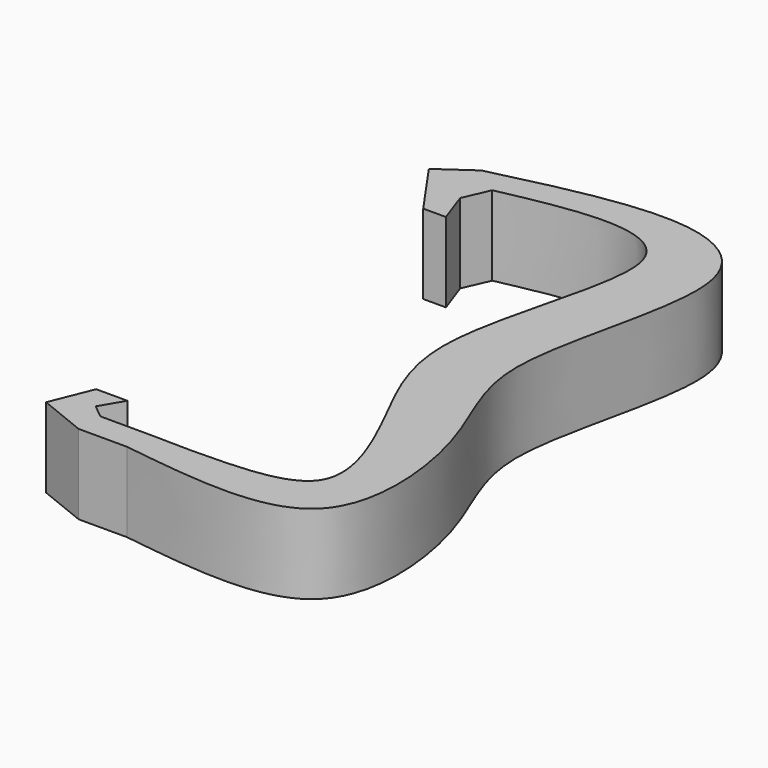
from build123d import *

# Parameters (mm, degrees)
F1_DEPTH = 20.32


with BuildPart() as f1:
    # F0 (on Top) → F1 (new body)
    with BuildSketch(Plane.XY):
        with BuildLine():
            Line((-5.7910070071, 41.5022486223), (0, 41.5022486223))
            Line((0, 41.5022486223), (-2.8955035035, 49.6828880203))
            Line((-2.8955035035, 49.6828880203), (0, 56.2785800104))
            add(Edge.make_bspline(
                [(12.8078160866, -68.7409374452), (18.608122414, -68.8904514883), (30.5005316395, -69.1970012602), (59.2912277286, -66.6743928388), (44.5129631894, -31.8993229359), (27.0069880809, -2.762895485), (50.0517279664, 51.6752064312), (29.7991802812, 62.4824075839), (11.0208183177, 58.5730066325), (0, 56.2785800104)],
                knots=[0, 0, 0, 0, 0.1178048845, 0.2415362231, 0.3858745601, 0.5500319549, 0.7436486097, 0.8495507457, 1, 1, 1, 1], degree=3))
            Line((12.8078160866, -68.7409374452), (0, -68.7409374452))
            Line((0, -68.7409374452), (-3.4636445343, -65.9374023477))
            Line((-3.4636445343, -65.9374023477), (0, -60.0977513777))
            Line((0, -60.0977513777), (-3.6535728, -60.0977513777))
            Line((-3.6535728, -60.0977513777), (-7.9968078761, -60.0977513777))
            Line((-7.9968078761, -60.0977513777), (-12.2739129151, -70.7331810928))
            Line((-12.2739129151, -70.7331810928), (0, -75.6692124694))
            Line((0, -75.6692124694), (12.3541528983, -75.6692124694))
            add(Edge.make_bspline(
                [(-7.0298093784, 61.6060708073), (10.9822453882, 65.9896565956), (41.1705855268, 73.3365771287), (66.7756702049, 54.2612610852), (44.3002287955, -2.812337661), (63.3661847799, -28.9427477198), (68.9967648955, -83.4999868311), (31.7966149106, -78.3570324902), (12.3541528983, -75.6692124694)],
                knots=[0, 0, 0, 0, 0.1846260385, 0.3094346522, 0.5010887482, 0.6542934796, 0.8193174113, 1, 1, 1, 1], degree=3))
            Line((-7.0298093784, 61.6060708073), (-15.6357344997, 55.5937053539))
            Line((-15.6357344997, 55.5937053539), (-5.7910070071, 41.5022486223))
        make_face()
    extrude(amount=F1_DEPTH)


solid = f1.part
